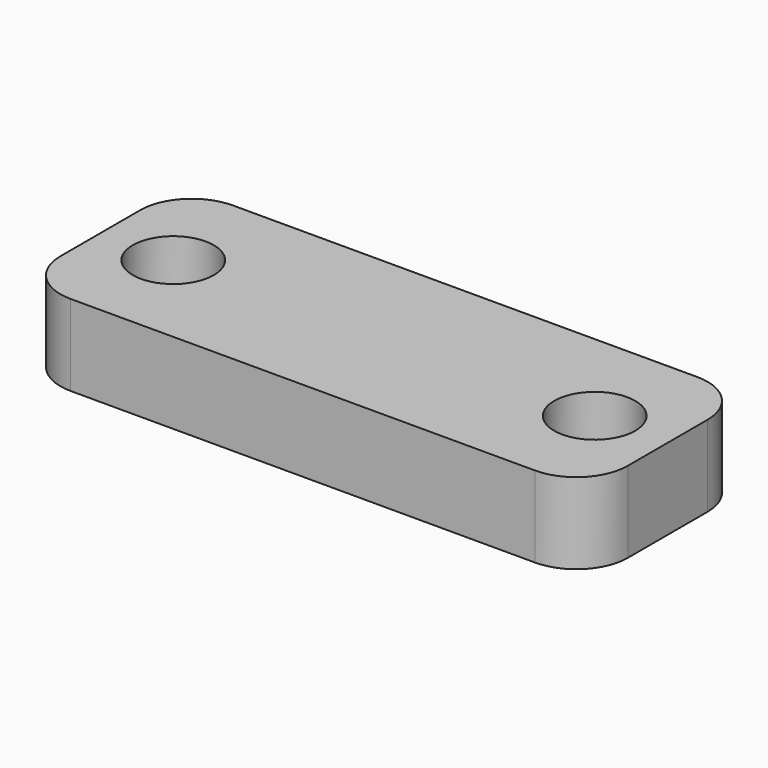
from build123d import *

# Parameters (mm, degrees)
F1_W     = 70
F1_H     = 25
F1_R     = 5
F2_DEPTH = 10
F3_R     = 6.35


with BuildPart() as f2:
    # F1 (on offset) → F2 (new body)
    with BuildSketch(Plane.XY.offset(25.4)):
        Rectangle(F1_W, F1_H)
        with Locations((-26, 0)):
            Circle(F1_R, mode=Mode.SUBTRACT)
        with Locations((26, 0)):
            Circle(F1_R, mode=Mode.SUBTRACT)
    extrude(amount=F2_DEPTH)

    # F3
    f3_edges = [f2.edges().sort_by_distance(p)[0] for p in [
        (-35, 12.5, 30.4),
        (35, 12.5, 30.4),
        (35, -12.5, 30.4),
        (-35, -12.5, 30.4),
    ]]
    fillet(f3_edges, radius=F3_R)


solid = f2.part
